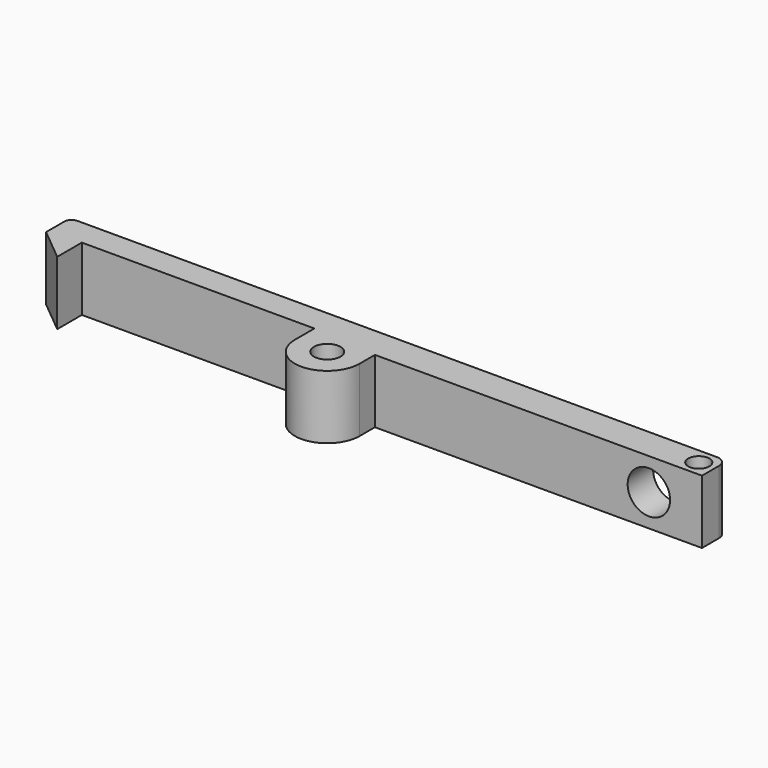
from build123d import *

# Parameters (mm, degrees)
F0_R     = 1.25
F0_R_2   = 1
F1_DEPTH = 6
F2_R     = 2
F3_DEPTH = 25


with BuildPart() as f1:
    # F0 (on Top) → F1 (new body)
    with BuildSketch(Plane.XY):
        with BuildLine():
            Line((60.9, 2.836746), (0.7, 2.836746))
            ThreePointArc((0.7, 2.836746), (0.205025, 2.631721), (0, 2.136746))
            Line((0, 2.136746), (0, 0))
            Line((0, 0), (3.1, -2.563254))
            Line((3.1, -2.563254), (3.1, 0.336746))
            Line((3.1, 0.336746), (25, 0.336746))
            Line((25, 0.336746), (25, -1.963254))
            ThreePointArc((25, -1.963254), (28.05, -5.013254), (31.1, -1.963254))
            Line((31.1, -1.963254), (31.1, -0.163254))
            Line((31.1, -0.163254), (61.9, -0.163254))
            Line((61.9, -0.163254), (61.9, 1.836746))
            ThreePointArc((61.9, 1.836746), (61.607107, 2.543853), (60.9, 2.836746))
        make_face()
        with Locations((28.05, -1.963254)):
            Circle(F0_R, mode=Mode.SUBTRACT)
        with Locations((60.4, 1.336746)):
            Circle(F0_R_2, mode=Mode.SUBTRACT)
    extrude(amount=F1_DEPTH)

    # F2 (on face) → F3 (cut)
    with BuildSketch(Plane.XZ.offset(0.163254)):
        with Locations((56.9, 3)):
            Circle(F2_R)
    extrude(amount=-F3_DEPTH, mode=Mode.SUBTRACT)


solid = f1.part
